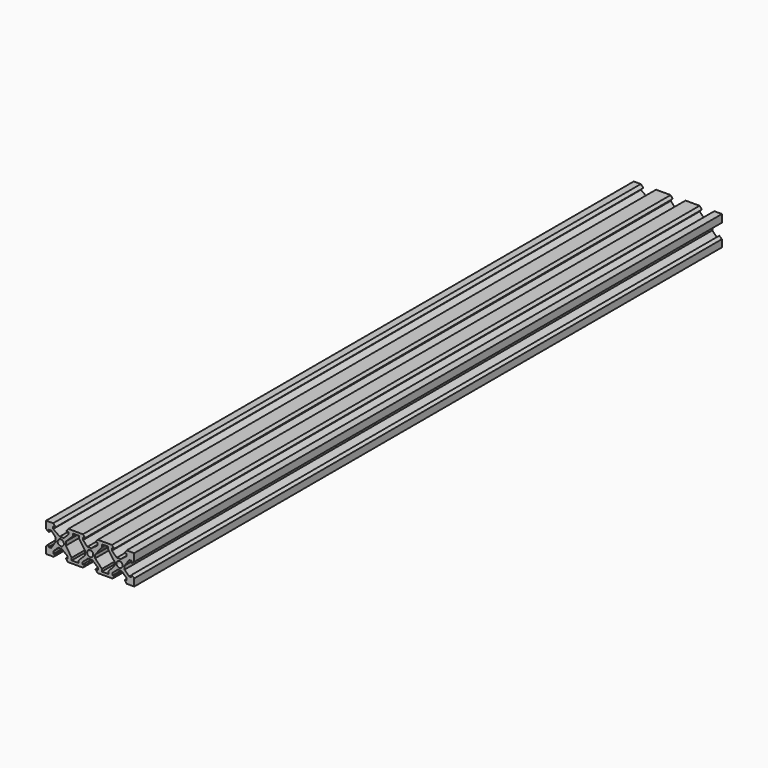
from build123d import *

# Parameters (mm, degrees)
F0_R     = 2.1
F0_W     = 2.608595
F0_H     = 1.64
F0_W_2   = 2.954579
F0_W_3   = 2.781998
F0_W_4   = 2.772428
F0_W_5   = 2.700623
F0_W_6   = 3.026465
F0_W_7   = 2.722846
F0_W_8   = 2.768436
F1_DEPTH = 500


with BuildPart() as f1:
    # F0 (on Front) → F1 (new body)
    with BuildSketch(Plane.XZ):
        Polygon((30, 4.805219), (30, 10), (24.818853, 10), (23.559123, 8.2), (24.85866, 8.2), (28.2, 8.2), (28.2, 4.872657), (28.2, 3.4364), align=None)
        Polygon((28.2, 8.2), (24.85866, 8.2), (24.85866, 6.56), (26.56, 6.56), (26.56, 4.872657), (28.2, 4.872657), align=None)
        Polygon((26.56, 6.56), (24.85866, 6.56), (20.776314, 3.45), (23.45, 3.45), (23.45, 0.429287), (26.56, 4.872657), align=None)
        Polygon((28.2, -5.054571), (26.56, -5.054571), (26.56, -6.56), (24.849551, -6.56), (24.849551, -8.2), (28.2, -8.2), align=None)
        Polygon((28.2, -3.583251), (28.2, -5.054571), (28.2, -8.2), (24.849551, -8.2), (23.522707, -8.2), (24.78151, -10), (30, -10), (30, -5.079649), align=None)
        Polygon((26.56, -5.054571), (23.45, -1.968018), (23.45, -3.45), (21.271573, -3.45), (24.849551, -6.56), (26.56, -6.56), align=None)
        Polygon((23.45, 3.45), (20.776314, 3.45), (18.152582, 3.45), (16.55, 3.45), (16.55, 0.581537), (16.55, -2.054411), (16.55, -3.45), (18.781548, -3.45), (21.271573, -3.45), (23.45, -3.45), (23.45, -1.968018), (23.45, 0.429287), align=None)
        with Locations((20, 0)):
            Circle(F0_R, mode=Mode.SUBTRACT)
        Polygon((16.55, 3.45), (18.152582, 3.45), (14.789955, 6.56), (12.18136, 6.56), (16.55, 0.581537), align=None)
        with Locations((13.485657, 7.38)):
            Rectangle(F0_W, F0_H)
        Polygon((12.18136, 8.2), (14.789955, 8.2), (16.369443, 8.2), (14.802462, 10), (5.216223, 10), (3.495616, 8.2), (5.084707, 8.2), (8.039286, 8.2), align=None)
        with Locations((6.561996, 7.38)):
            Rectangle(F0_W_2, F0_H)
        Polygon((3.45, 0.523604), (8.039286, 6.56), (5.084707, 6.56), (0.743741, 3.45), (3.45, 3.45), align=None)
        Polygon((16.55, -3.45), (16.55, -2.054411), (12.382907, -6.56), (15.164905, -6.56), (18.781548, -3.45), align=None)
        with Locations((13.773906, -7.38)):
            Rectangle(F0_W_3, F0_H)
        Polygon((15.164905, -8.2), (12.382907, -8.2), (7.965668, -8.2), (5.19324, -8.2), (3.534545, -8.2), (5.178779, -10), (15.299954, -10), (16.450917, -8.2), align=None)
        with Locations((6.579454, -7.38)):
            Rectangle(F0_W_4, F0_H)
        Polygon((5.19324, -6.56), (7.965668, -6.56), (3.45, -1.706813), (3.45, -3.45), (1.51754, -3.45), align=None)
        Polygon((3.45, -1.706813), (3.45, 0.523604), (3.45, 3.45), (0.743741, 3.45), (-1.908073, 3.45), (-3.45, 3.45), (-3.45, 0.529449), (-3.45, -2.140485), (-3.45, -3.45), (-1.461518, -3.45), (1.51754, -3.45), (3.45, -3.45), align=None)
        Circle(F0_R, mode=Mode.SUBTRACT)
        Polygon((-3.45, 3.45), (-1.908073, 3.45), (-4.804165, 6.56), (-7.504788, 6.56), (-3.45, 0.529449), align=None)
        with Locations((-6.154476, 7.38)):
            Rectangle(F0_W_5, F0_H)
        Polygon((-7.504788, 8.2), (-4.804165, 8.2), (-3.478876, 8.2), (-4.912788, 10), (-14.839575, 10), (-16.450822, 8.2), (-14.827697, 8.2), (-11.801232, 8.2), align=None)
        with Locations((-13.314464, 7.38)):
            Rectangle(F0_W_6, F0_H)
        Polygon((-16.55, 1.867669), (-11.801232, 6.56), (-14.827697, 6.56), (-17.999909, 3.45), (-16.55, 3.45), align=None)
        Polygon((-5.053682, -6.56), (-1.461518, -3.45), (-3.45, -3.45), (-3.45, -2.140485), (-7.776528, -6.56), align=None)
        with Locations((-6.415105, -7.38)):
            Rectangle(F0_W_7, F0_H)
        Polygon((-3.516317, -8.2), (-5.053682, -8.2), (-7.776528, -8.2), (-12.596157, -8.2), (-15.364593, -8.2), (-16.573226, -8.2), (-15.341443, -10), (-4.912339, -10), align=None)
        with Locations((-13.980375, -7.38)):
            Rectangle(F0_W_8, F0_H)
        Polygon((-15.364593, -6.56), (-12.596157, -6.56), (-16.55, -0.627868), (-16.55, -3.45), (-19.336489, -3.45), align=None)
        Polygon((-16.55, -0.627868), (-16.55, 1.867669), (-16.55, 3.45), (-17.999909, 3.45), (-20.69855, 3.45), (-23.45, 3.45), (-23.45, 2.055018), (-23.45, -0.513568), (-23.45, -3.45), (-21.768495, -3.45), (-19.336489, -3.45), (-16.55, -3.45), align=None)
        with Locations((-20, 0)):
            Circle(F0_R, mode=Mode.SUBTRACT)
        Polygon((-23.45, 3.45), (-20.69855, 3.45), (-25.162122, 6.56), (-26.56, 6.56), (-26.56, 5.223384), (-23.45, 2.055018), align=None)
        Polygon((-24.874446, -6.56), (-21.768495, -3.45), (-23.45, -3.45), (-23.45, -0.513568), (-26.56, -5.258857), (-26.56, -6.56), align=None)
        Polygon((-26.56, 6.56), (-25.162122, 6.56), (-25.162122, 8.2), (-28.2, 8.2), (-28.2, 5.223384), (-26.56, 5.223384), align=None)
        Polygon((-28.2, 8.2), (-25.162122, 8.2), (-23.471262, 8.2), (-25.197601, 10), (-30, 10), (-30, 5.174848), (-28.2, 3.632653), (-28.2, 5.223384), align=None)
        Polygon((-24.874446, -8.2), (-24.874446, -6.56), (-26.56, -6.56), (-26.56, -5.258857), (-28.2, -5.258857), (-28.2, -8.2), align=None)
        Polygon((-23.553334, -8.2), (-24.874446, -8.2), (-28.2, -8.2), (-28.2, -5.258857), (-28.2, -3.466297), (-30, -5.218167), (-30, -10), (-24.812492, -10), align=None)
    extrude(amount=F1_DEPTH)


solid = f1.part
